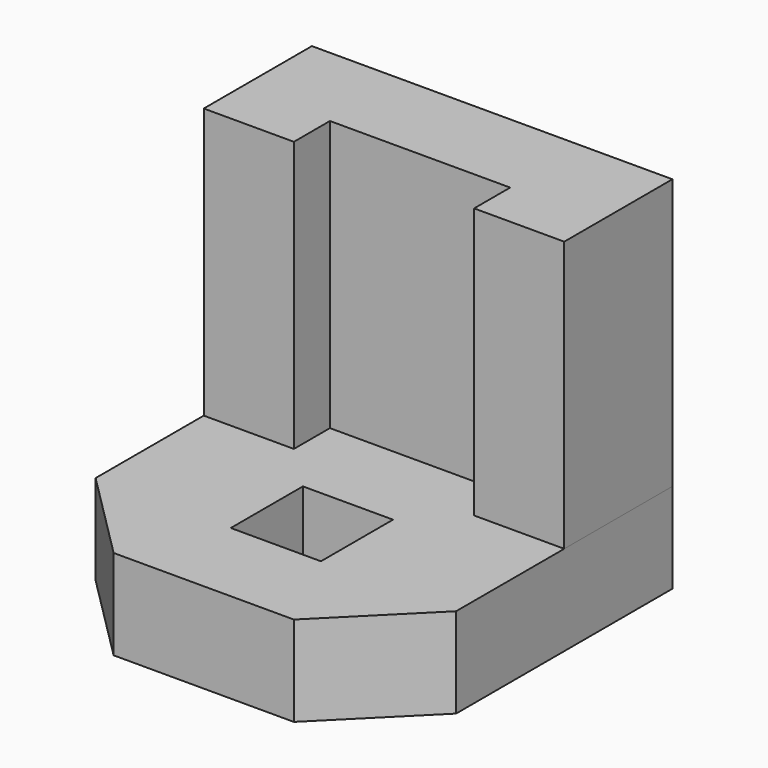
from build123d import *

# Parameters (mm, degrees)
F1_DEPTH  = 50.8
F2_DEPTH  = 25.4
F3_W      = 25.40301
F3_H      = 25.4
F4_DEPTH  = 50.8
F4_FACE_W = 25.40301
F4_FACE_H = 25.4
F5_DEPTH  = 67.056
F7_DEPTH  = 25.4
F8_DEPTH  = 50.8


with BuildPart() as f1:
    # F0 (on Top) → F1 (new body)
    with BuildSketch(Plane.XY):
        Polygon((50.8, 50.8), (0, 50.8), (-50.8, 50.8), (-50.8, -25.4), (-25.4, -50.8), (0, -50.8), (25.4, -50.8), (50.8, -25.4), align=None)
    extrude(amount=-F1_DEPTH)

    # F1_face (on face) → F2 (cut)
    with BuildSketch(Plane(origin=(0, 2.822222, 0), x_dir=(1, 0, 0), z_dir=(0, 0, 1))):
        Polygon((50.8, -28.222222), (50.8, 47.977778), (-50.8, 47.977778), (-50.8, -28.222222), (-25.4, -53.622222), (25.4, -53.622222), align=None)
    extrude(amount=-F2_DEPTH, mode=Mode.SUBTRACT)

    # F3 (on Top) → F4 (join)
    with BuildSketch(Plane.XY):
        with Locations((-0.001505, -12.7)):
            Rectangle(F3_W, F3_H)
    extrude(amount=-F4_DEPTH)

    # F4_face (on face) → F5 (cut)
    with BuildSketch(Plane(origin=(-0.001505, -12.7, 0), x_dir=(1, 0, 0), z_dir=(0, 0, 1))):
        Rectangle(F4_FACE_W, F4_FACE_H)
    extrude(amount=-F5_DEPTH, mode=Mode.SUBTRACT)


with BuildPart() as f7:
    # F6 (on Top) → F7 (new body)
    with BuildSketch(Plane.XY):
        Polygon((50.8, 50.8), (0, 50.8), (-50.8, 50.8), (-50.8, 12.7), (-25.4, 12.7), (-25.4, 25.4), (25.4, 25.4), (25.4, 12.7), (50.8, 12.7), align=None)
    extrude(amount=-F7_DEPTH)

    # F7_face (on face) → F8 (join)
    with BuildSketch(Plane(origin=(0, 34.29, 0), x_dir=(1, 0, 0), z_dir=(0, 0, 1))):
        Polygon((50.8, -21.59), (50.8, 16.51), (-50.8, 16.51), (-50.8, -21.59), (-25.4, -21.59), (-25.4, -8.89), (25.4, -8.89), (25.4, -21.59), align=None)
    extrude(amount=F8_DEPTH)


solid = Compound([f1.part, f7.part])
